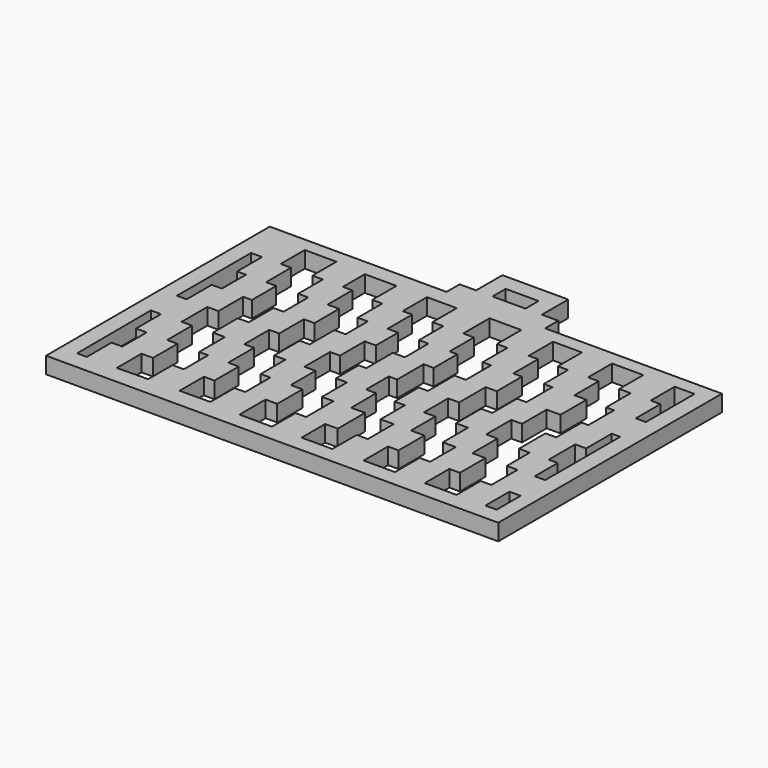
from build123d import *

# Parameters (mm, degrees)
F0_W     = 0.8654175569
F0_H     = 2.3197809324
F0_W_2   = 2.54
F0_H_2   = 1.27
F1_DEPTH = 1.27
F2_SCALE = 1.5


with BuildPart() as f1:
    # F0 (on Top) → F1 (new body)
    with BuildSketch(Plane.XY):
        Polygon((-3.81, 10.795), (-17.4625, 10.795), (-17.4625, -10.795), (17.4625, -10.795), (17.4625, 10.795), (3.81, 10.795), (3.81, 12.065), (2.54, 12.065), (2.54, 14.605), (-2.54, 14.605), (-2.54, 12.065), (-3.81, 12.065), align=None)
        Polygon((-15.4440278115, -2.2284867859), (-15.4440278115, -4.6329641317), (-14.6190241249, -4.6329641317), (-14.6190241249, -6.99251505), (-15.4440278115, -6.99251505), (-15.4440278115, -9.384377932), (-16.1925, -9.384377932), (-16.2292983056, -2.2284867859), align=None, mode=Mode.SUBTRACT)
        Polygon((-13.9007776028, 7.4042789963), (-13.9007776028, 9.7276841029), (-11.4593553492, 9.7276841029), (-11.4593553492, 7.4057118894), (-10.6456312925, 7.4057118894), (-10.6456312925, 5.0216409296), (-9.8664875127, 5.0216409296), (-9.8664875127, 2.6374756654), (-10.63955057, 2.6374756654), (-10.63955057, 0.2480102758), (-11.4887189351, 0.2480102758), (-11.4887189351, -2.1600853368), (-10.5586774507, -2.1600853368), (-10.5586774507, -4.6469371258), (-9.8676164568, -4.6469371258), (-9.8676164568, -6.99251505), (-10.7406195864, -6.99251505), (-10.7406195864, -9.3426486976), (-13.1313467787, -9.384377932), (-13.1313467787, -6.99251505), (-12.2452586898, -6.99251505), (-12.2452586898, -4.6329641317), (-13.0412520071, -4.6329641317), (-13.0412520071, -2.2284867859), (-13.8439944603, -2.2284867859), (-13.8439944603, 0.2480102758), (-12.9860263404, 0.2480102758), (-12.9860263404, 2.6375229709), (-12.3159081497, 2.6375229709), (-12.3159081497, 4.9916563583), (-13.1013293852, 4.9916563583), (-13.1013293852, 7.4042789963), align=None, mode=Mode.SUBTRACT)
        Polygon((-9.1038363743, 7.4057118894), (-9.1038363743, 9.525), (-6.6575103607, 9.525), (-6.6575103607, 7.1887519473), (-5.8866132082, 7.1887519473), (-5.8866132082, 4.8189568267), (-5.1065922205, 4.8189568267), (-5.1065922205, 2.6719339981), (-5.9700511421, 2.6719339981), (-5.9700511421, 0.2836764477), (-6.7367495545, 0.2836764477), (-6.7367495545, -2.1867964912), (-5.8635649108, -2.1867964912), (-5.8635649108, -4.57208056), (-5.118164358, -4.57208056), (-5.118164358, -6.999958968), (-5.9487538959, -6.999958968), (-5.9487538959, -9.3213514513), (-8.3127408717, -9.3426486976), (-8.3127408717, -6.99251505), (-7.5020743466, -6.99251505), (-7.5020743466, -4.6469371258), (-8.3144450194, -4.6469371258), (-8.3144450194, -2.1600853368), (-9.0625222921, -2.1600853368), (-9.0625222921, 0.2480102758), (-8.2942264329, 0.2480102758), (-8.2942264329, 2.6374756654), (-7.4824162463, 2.6374756654), (-7.4824162463, 5.0216409296), (-8.3757673524, 5.0216409296), (-8.3757673524, 7.4057118894), align=None, mode=Mode.SUBTRACT)
        Polygon((-4.3019910792, 7.1887519473), (-4.3019910792, 9.525), (-2.0036815484, 9.525), (-2.0036815484, 7.1831918514), (-1.1680848887, 7.1831918514), (-1.1680848887, 4.8400170621), (-0.4399616774, 4.8400170621), (-0.4399616774, 2.5599492365), (-1.3676759792, 2.5599492365), (-1.3676759792, 0), (-1.9629580084, 0), (-1.9629580084, -2.1867964912), (-1.1072276937, -2.1867964912), (-1.1072276937, -4.6068978476), (-0.2173056517, -4.6068978476), (-0.2173056517, -7.2491736894), (-1.0318728904, -7.2491736894), (-1.0318728904, -9.525), (-3.5488845359, -9.5212470732), (-3.5488845359, -6.999958968), (-2.6476911508, -6.999958968), (-2.6476911508, -4.57208056), (-3.5421724275, -4.57208056), (-3.5421724275, -2.1867964912), (-4.3940598249, -2.1867964912), (-4.3940598249, 0.2836764477), (-3.6273617191, 0.2836764477), (-3.6273617191, 2.6719339981), (-2.7656569228, 2.6719339981), (-2.7656569228, 4.8189568267), (-3.5739214441, 4.8189568267), (-3.5739214441, 7.1887519473), align=None, mode=Mode.SUBTRACT)
        with Locations((15.8861937931, -8.3651095338)):
            Rectangle(F0_W, F0_H, mode=Mode.SUBTRACT)
        Polygon((0.3684461123, 7.1831918514), (0.3684461123, 9.7276367974), (2.8166137807, 9.7276367974), (2.8166137807, 7.378412939), (3.6271352785, 7.378412939), (3.6271352785, 4.9931636706), (4.2754215729, 4.9931636706), (4.2754215729, 2.5598856146), (3.3954270842, 2.5598856146), (3.3954270842, 0), (2.6887488251, 0), (2.6887488251, -2.3345355457), (3.4801957046, -2.3345355457), (3.4801957046, -4.6787796431), (4.4900339482, -4.6787796431), (4.4900339482, -7.1749767326), (3.6324178185, -7.1749767326), (3.6324178185, -9.525), (1.2542739688, -9.525), (1.2542739688, -7.2491736894), (2.2260716694, -7.2491736894), (2.2260716694, -4.6068978476), (1.1487885138, -4.6068978476), (1.1487885138, -2.1867964912), (0.3684461123, -2.1867964912), (0.3684461123, 0), (1.0149704627, 0), (1.0149704627, 2.5599492365), (1.789174422, 2.5599492365), (1.789174422, 4.8400170621), (1.193737792, 4.8400170621), (1.193737792, 7.1831918514), align=None, mode=Mode.SUBTRACT)
        Polygon((5.2713363466, 7.378412939), (5.2713363466, 9.7276367974), (7.5061232991, 9.7276367974), (7.5061232991, 7.4080929482), (8.2868154678, 7.4080929482), (8.2868154678, 5.0660158287), (8.9515882714, 5.0660158287), (8.9515882714, 2.5598856146), (8.2229422063, 2.5598856146), (8.2229422063, 0.1834253504), (7.3568997748, 0.1834253504), (7.3568997748, -2.2433883295), (8.2878696793, -2.2433883295), (8.2878696793, -4.6787796431), (9.2812738443, -4.6787796431), (9.2812738443, -7.1492520139), (8.4666747179, -7.1492520139), (8.4666747179, -9.525), (6.0478999169, -9.525), (6.0478999169, -7.1749767326), (6.8622390365, -7.1749767326), (6.8622390365, -4.6787796431), (5.8325516735, -4.6787796431), (5.8325516735, -2.3345355457), (4.9531661156, -2.3345355457), (4.9531661156, 0), (5.8038338118, 0), (5.8038338118, 2.5598856146), (6.6606711479, 2.5598856146), (6.6606711479, 4.9931636706), (5.9892270877, 4.9931636706), (5.9892270877, 7.378412939), align=None, mode=Mode.SUBTRACT)
        Polygon((9.8308517173, 7.4080929482), (9.8308517173, 9.7276367974), (12.2423236417, 9.7276367974), (12.2423236417, 7.4080929482), (13.1271080179, 7.4080929482), (13.1271080179, 5.0313184263), (13.7398341046, 5.0313184263), (13.7398341046, 2.5598856146), (13.2263658067, 2.5598856146), (13.2263658067, 0.0952229024), (12.394203351, 0.0952229024), (12.394203351, -2.4653107167), (13.2263658067, -2.4653107167), (13.2263658067, -4.6787796431), (14.0524929185, -4.6787796431), (14.0524929185, -7.2052190676), (13.2263658067, -7.2052190676), (13.2263658067, -9.525), (12.5414321403, -9.525), (10.7650063247, -9.525), (10.7650063247, -7.1492520139), (11.5827016157, -7.1492520139), (11.5827016157, -4.6787796431), (10.5571081316, -4.6787796431), (10.5571081316, -2.2433883295), (9.6843245361, -2.2433883295), (9.6843245361, 0.1834253504), (10.5129732221, 0.1834253504), (10.5129732221, 2.5598856146), (11.5827016157, 2.5598856146), (11.5827016157, 5.0660158287), (10.6462419018, 5.0660158287), (10.6462419018, 7.4080929482), align=None, mode=Mode.SUBTRACT)
        Polygon((15.5382104028, 0.0952229024), (15.5382104028, 2.5598856146), (16.1925, 2.5598856146), (16.1925, -4.6787796431), (15.386514128, -4.6787796431), (15.386514128, -2.4653107167), (14.6925349578, -2.4653107167), (14.6925349578, 0.0952229024), align=None, mode=Mode.SUBTRACT)
        Polygon((-16.1925, 0.2480102758), (-16.1925, 7.4042789963), (-15.3426410339, 7.4042789963), (-15.3426410339, 4.9916563583), (-14.6571518986, 4.9916563583), (-14.6571518986, 2.6719339981), (-15.4440278115, 2.6719339981), (-15.4440278115, 0.2480102758), align=None, mode=Mode.SUBTRACT)
        Polygon((14.6711442674, 7.4080929482), (14.6711442674, 9.7276367974), (16.1978312025, 9.7276367974), (16.1978312025, 5.0313184263), (15.4171390337, 5.0313184263), (15.4171390337, 7.4080929482), align=None, mode=Mode.SUBTRACT)
        with Locations((0, 12.7)):
            Rectangle(F0_W_2, F0_H_2, mode=Mode.SUBTRACT)
    extrude(amount=F1_DEPTH)


with BuildPart() as f1_1:
    # F2: moved
    add(f1.part.scale(F2_SCALE))


solid = f1_1.part
